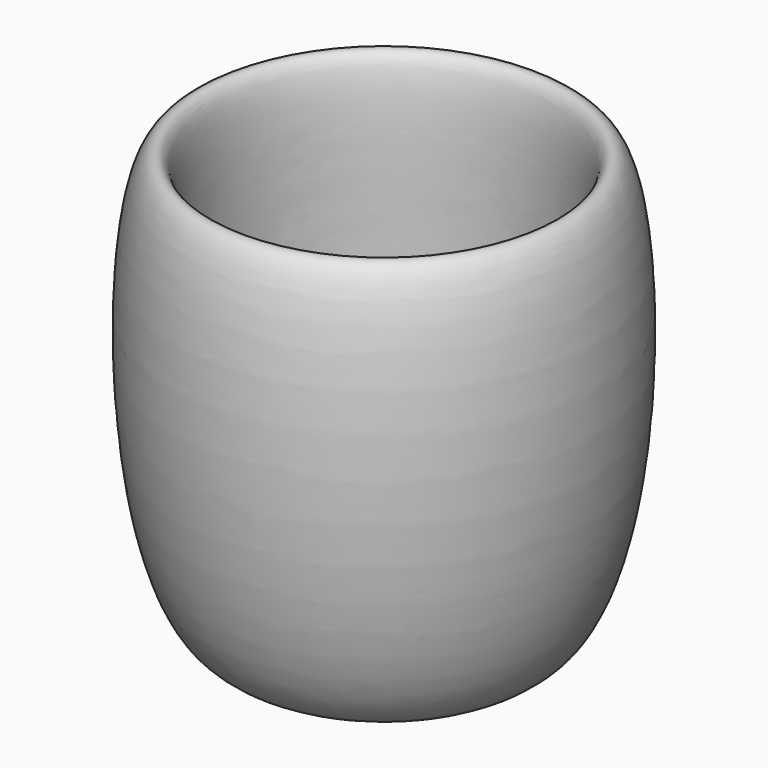
from build123d import *


with BuildPart() as f1:
    # F0 (on Front) → F1 (revolve)
    with BuildSketch(Plane.XZ):
        with BuildLine():
            Line((0, -81.4165771008), (0, -69.7237551212))
            add(Edge.make_bspline(
                [(0, -69.7237551212), (-16.9221162258, -76.3349408395), (-60.7488090563, -93.457302817), (-40.1715065831, 40.3217595773), (-65.0694534393, 35.54759211), (-63.7889204484, -107.8401252888), (-17.8444266736, -88.8082873085), (0, -81.4165771008)],
                knots=[0, 0, 0, 0, 0.1748237016, 0.452776696, 0.5225627642, 0.8145674886, 1, 1, 1, 1], degree=3))
        make_face()
    revolve(axis=Axis((0, 0, -12.1258869767), (0, 0, 1)))


solid = f1.part
